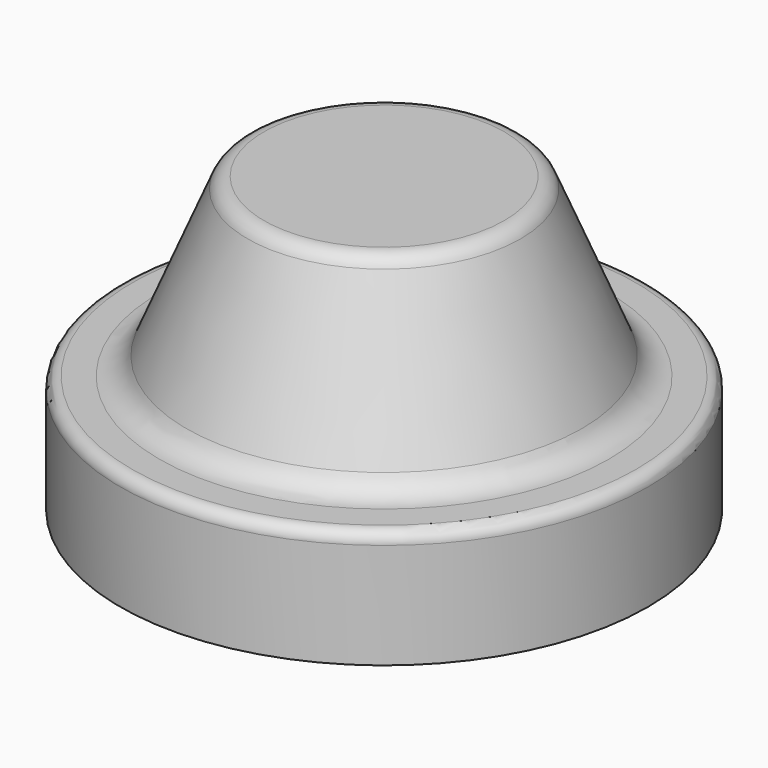
from build123d import *


with BuildPart() as f1:
    # F0 (on Front) → F1 (revolve)
    with BuildSketch(Plane.XZ):
        with BuildLine():
            Line((-13.495519, -19.783843), (31.504481, -19.783843))
            Line((31.504481, -19.783843), (31.504481, -1.783843))
            ThreePointArc((31.504481, -1.783843), (30.918695, -0.369629), (29.504481, 0.216157))
            Line((29.504481, 0.216157), (24.837814, 0.216157))
            ThreePointArc((24.837814, 0.216157), (22.064313, 1.055906), (20.22243, 3.29308))
            Line((20.22243, 3.29308), (9.773712, 28.370003))
            ThreePointArc((9.773712, 28.370003), (8.668582, 29.712308), (7.004481, 30.216157))
            Line((7.004481, 30.216157), (-13.495519, 30.216157))
            Line((-13.495519, 30.216157), (-13.495519, -19.783843))
        make_face()
    revolve(axis=Axis((-13.495519, 0, 5.240102), (0, 0, -1)))


solid = f1.part
